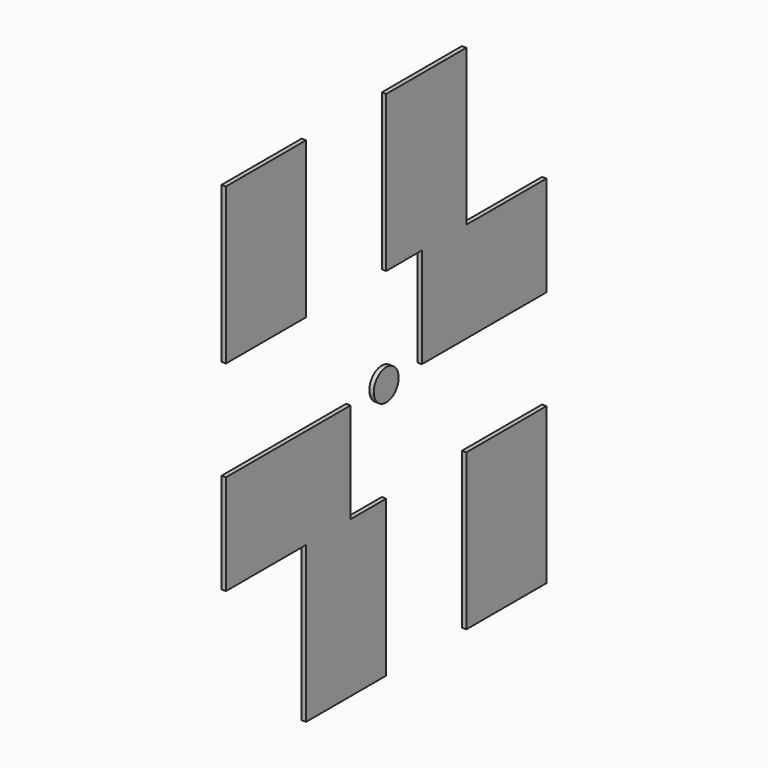
from build123d import *

# Parameters (mm, degrees)
F0_W     = 22.5
F0_H     = 35
F0_R     = 3.5
F1_DEPTH = 1


with BuildPart() as f1:
    # F0 (on Right) → F1 (new body)
    with BuildSketch(Plane.YZ):
        with Locations((-33.75, 40)):
            Rectangle(F0_W, F0_H)
        Polygon((-10, 0), (-45, 0), (-45, -22.5), (-22.5, -22.5), (-10, -22.5), align=None)
        Polygon((-10, -22.5), (-22.5, -22.5), (-22.5, -57.5), (0, -57.5), (0, -22.5), align=None)
        with Locations((33.75, -40)):
            Rectangle(F0_W, F0_H)
        Circle(F0_R)
        Polygon((45, 22.5), (22.5, 22.5), (10, 22.5), (10, 0), (45, 0), align=None)
        Polygon((22.5, 57.5), (0, 57.5), (0, 22.5), (10, 22.5), (22.5, 22.5), align=None)
    extrude(amount=-F1_DEPTH)


solid = f1.part
